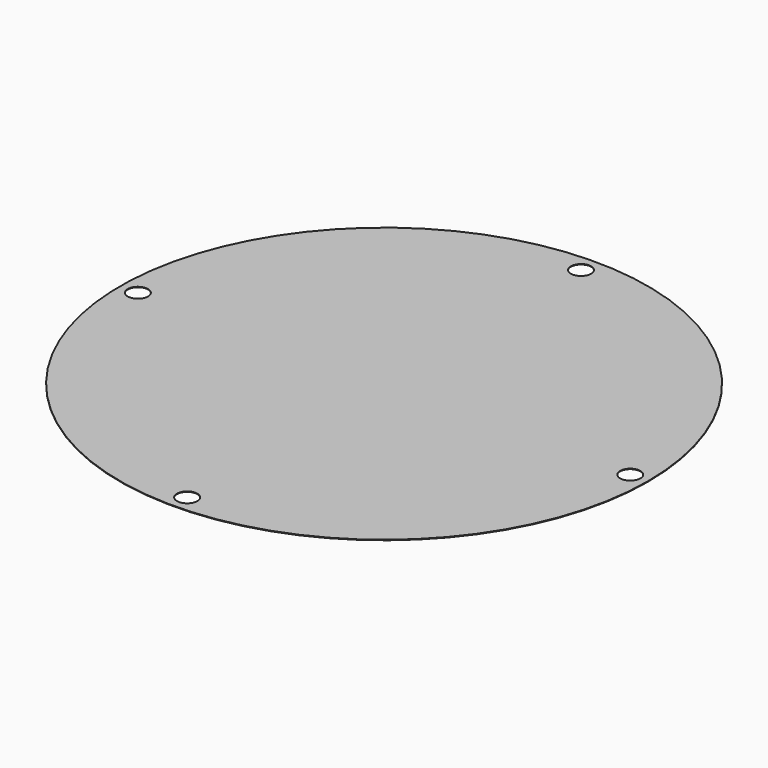
from build123d import *

# Parameters (mm, degrees)
F0_R     = 52
F1_DEPTH = 0.1
F2_R     = 2
F3_DEPTH = 0.101


with BuildPart() as f1:
    # F0 (on Top) → F1 (new body)
    with BuildSketch(Plane.XY):
        Circle(F0_R)
    extrude(amount=F1_DEPTH)

    # F2 (on Top) → F3 (cut, through all)
    with BuildSketch(Plane.XY):
        with Locations((48.5, 0)):
            Circle(F2_R)
        with Locations((0, 48.5)):
            Circle(F2_R)
        with Locations((-48.5, 0)):
            Circle(F2_R)
        with Locations((0, -48.5)):
            Circle(F2_R)
    extrude(amount=F3_DEPTH, mode=Mode.SUBTRACT)


solid = f1.part
